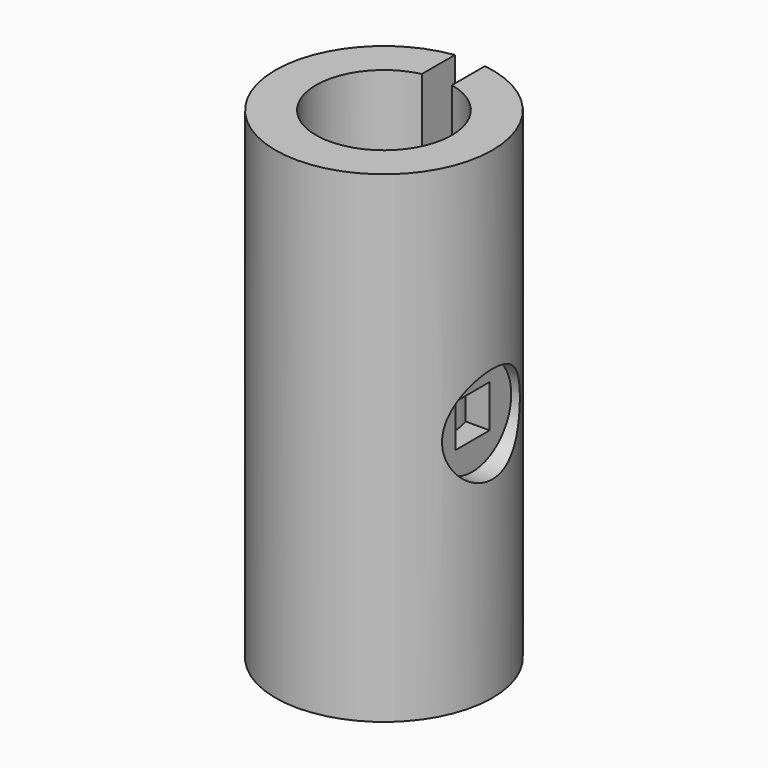
from build123d import *

# Parameters (mm, degrees)
F0_R      = 17.145
F1_DEPTH  = 76.2
F2_R      = 10.7315
F3_DEPTH  = 76.201
F4_W      = 6.731
F4_H      = 6.731
F5_DEPTH  = 17.146
F6_DEPTH  = 17.146
F7_W      = 2.38125
F7_H      = 5.204442
F8_DEPTH  = 17.146
F10_R     = 7.6835
F11_DEPTH = 11.43
F13_R     = 12.7
F14_DEPTH = 10.16


with BuildPart() as f1:
    # F0 (on Top) → F1 (new body)
    with BuildSketch(Plane.XY):
        Circle(F0_R)
    extrude(amount=F1_DEPTH)

    # F2 (on face) → F3 (cut, through all)
    with BuildSketch(Plane.XY.offset(76.2)):
        Circle(F2_R)
        Circle(F2_R)
    extrude(amount=-F3_DEPTH, mode=Mode.SUBTRACT)

    # F4 (on Right) → F5 (cut, through all)
    with BuildSketch(Plane.YZ):
        with Locations((0.0635, 38.1635)):
            Rectangle(F4_W, F4_H)
    extrude(amount=-F5_DEPTH, mode=Mode.SUBTRACT)

    # F4 (on Right) → F6 (cut, through all)
    with BuildSketch(Plane.YZ):
        with Locations((0.0635, 38.1635)):
            Rectangle(F4_W, F4_H)
    extrude(amount=F6_DEPTH, mode=Mode.SUBTRACT)

    # F7 (on Front) → F8 (cut, through all)
    with BuildSketch(Plane.XZ):
        Polygon((-2.38125, 81.334032), (-2.38125, -5.204442), (0, -5.204442), (0, 0), (2.38125, 0), (2.38125, 81.334032), align=None)
        with Locations((1.190625, -2.602221)):
            Rectangle(F7_W, F7_H)
    extrude(amount=-F8_DEPTH, mode=Mode.SUBTRACT)

    # F10 (on offset) → F11 (cut)
    with BuildSketch(Plane.YZ.offset(25.4)):
        with Locations((0, 38.1)):
            Circle(F10_R)
    extrude(amount=-F11_DEPTH, mode=Mode.SUBTRACT)

    # F13 (on offset) → F14 (cut)
    with BuildSketch(Plane.YZ.offset(-25.4)):
        with Locations((0, 38.1)):
            Circle(F13_R)
    extrude(amount=F14_DEPTH, mode=Mode.SUBTRACT)


solid = f1.part
